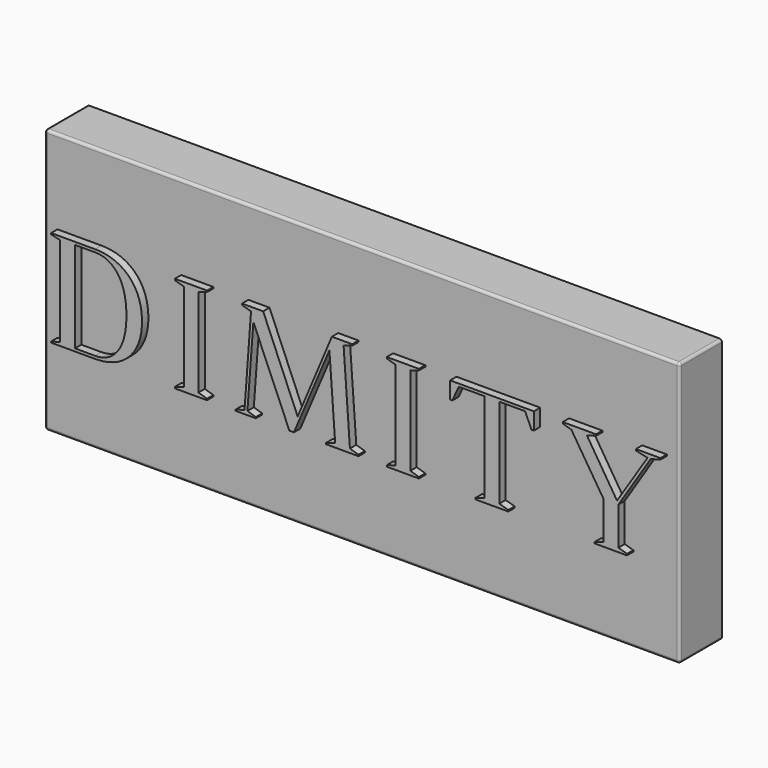
from build123d import *

# Parameters (mm, degrees)
F1_DEPTH = 15
F2_W     = 1200
F2_H     = 500
F3_DEPTH = 100
F5_W     = 1188
F5_H     = 488
F6_DEPTH = 94
F7_R     = 5


with BuildPart() as f1:
    # F0 (on Front) → F1 (new body)
    with BuildSketch(Plane.XZ):
        with BuildLine():
            Line((-492.688128328, 131.8467284969), (-575.8642325067, 131.8467284969))
            Line((-575.8642325067, 131.8467284969), (-575.8642325067, 129.4973567609))
            Line((-575.8642325067, 129.4973567609), (-558.9160195401, 125.5868167992))
            Line((-558.9160195401, 125.5868167992), (-558.9160195401, -44.4131832008))
            Line((-558.9160195401, -44.4131832008), (-575.8642325067, -48.5864438502))
            Line((-575.8642325067, -48.5864438502), (-575.8642325067, -50.6692748381))
            Line((-575.8642325067, -50.6692748381), (-492.688128328, -50.6692748381))
            add(Edge.make_bspline(
                [(-492.688128328, -50.6692748381), (-440.5398678839, -50.6692748381), (-404.0365235328, -16.7765100838), (-404.0365235328, 40.5868167992)],
                knots=[0, 0, 0, 0, 1, 1, 1, 1], degree=3))
            add(Edge.make_bspline(
                [(-404.0365235328, 40.5868167992), (-404.0365235328, 97.4286398014), (-440.5398678839, 131.8467284969), (-492.688128328, 131.8467284969)],
                knots=[0, 0, 0, 0, 1, 1, 1, 1], degree=3))
        make_face()
        with BuildLine():
            Line((-530.7578425423, -45.4564880014), (-530.7578425423, 126.6301423233))
            Line((-530.7578425423, 126.6301423233), (-492.688128328, 126.6301423233))
            add(Edge.make_bspline(
                [(-492.688128328, 126.6301423233), (-458.2686649634, 126.6301423233), (-433.5007536503, 97.9495426962), (-433.5007536503, 40.3278954484)],
                knots=[0, 0, 0, 0, 1, 1, 1, 1], degree=3))
            add(Edge.make_bspline(
                [(-433.5007536503, 40.3278954484), (-433.5007536503, -17.0354314346), (-458.2686649634, -45.4564880014), (-492.688128328, -45.4564880014)],
                knots=[0, 0, 0, 0, 1, 1, 1, 1], degree=3))
            Line((-492.688128328, -45.4564880014), (-530.7578425423, -45.4564880014))
        make_face(mode=Mode.SUBTRACT)
    extrude(amount=F1_DEPTH)


with BuildPart() as f1b:
    # F0 (on Front) → F1, piece 2 (new body)
    with BuildSketch(Plane.XZ):
        Polygon((-281.214325751, 131.8467284969), (-341.9704949597, 131.8467284969), (-341.9704949597, 129.2384354101), (-325.0184757483, 124.2845699242), (-325.0184757483, -43.1109363259), (-341.9704949597, -48.0647810881), (-341.9704949597, -50.6692748381), (-281.214325751, -50.6692748381), (-281.214325751, -48.0647810881), (-297.381940789, -43.1109363259), (-297.381940789, 124.2845699242), (-281.214325751, 129.2384354101), align=None)
    extrude(amount=F1_DEPTH)


with BuildPart() as f1c:
    # F0 (on Front) → F1, piece 3 (new body)
    with BuildSketch(Plane.XZ):
        Polygon((-175.0928314113, 131.8467284969), (-214.986434539, 131.8467284969), (-214.986434539, 129.2384354101), (-198.0382215723, 124.2845699242), (-210.2953104643, -43.6325990879), (-227.2397240942, -48.5864438502), (-227.2397240942, -50.6692748381), (-188.9110885291, -50.6692748381), (-188.9110885291, -48.5864438502), (-204.8197960321, -43.6325990879), (-193.6060326642, 108.120754223), (-125.5542525388, -50.6692748381), (-116.948761534, -50.6692748381), (-49.9403069328, 107.8580128117), (-38.9854649157, -43.1109363259), (-55.9374772192, -48.0647810881), (-55.9374772192, -50.6692748381), (5.0776064324, -50.6692748381), (5.0776064324, -48.0647810881), (-11.0900293293, -43.1109363259), (-23.0805705653, 124.2845699242), (-6.9167410483, 129.2384354101), (-6.9167410483, 131.8467284969), (-45.2453766134, 131.8467284969), (-109.9082864471, -21.9894350783), align=None)
    extrude(amount=F1_DEPTH)


with BuildPart() as f1d:
    # F0 (on Front) → F1, piece 4 (new body)
    with BuildSketch(Plane.XZ):
        Polygon((119.2943339332, 131.8467284969), (58.5419709692, 131.8467284969), (58.5419709692, 129.2384354101), (75.4901839359, 124.2845699242), (75.4901839359, -43.1109363259), (58.5419709692, -48.0647810881), (58.5419709692, -50.6692748381), (119.2943339332, -50.6692748381), (119.2943339332, -48.0647810881), (103.1305251399, -43.1109363259), (103.1305251399, 124.2845699242), (119.2943339332, 129.2384354101), align=None)
    extrude(amount=F1_DEPTH)


with BuildPart() as f1e:
    # F0 (on Front) → F1, piece 5 (new body)
    with BuildSketch(Plane.XZ):
        Polygon((336.4949805275, 131.8467284969), (178.2266073206, 131.8467284969), (178.2266073206, 99.7742122006), (182.3960686332, 99.7742122006), (194.6531575252, 126.6301423233), (243.1484315972, 126.6301423233), (243.1484315972, -43.1109363259), (226.2002186305, -48.0647810881), (226.2002186305, -50.6692748381), (288.2586278063, -50.6692748381), (288.2586278063, -48.0647810881), (271.3104148396, -43.1109363259), (271.3104148396, 126.6301423233), (320.0722296597, 126.6301423233), (332.0627778036, 99.7742122006), (336.4949805275, 99.7742122006), align=None)
    extrude(amount=F1_DEPTH)


with BuildPart() as f1f:
    # F0 (on Front) → F1, piece 6 (new body)
    with BuildSketch(Plane.XZ):
        Polygon((454.1005852279, 131.8467284969), (391.2615712155, 131.8467284969), (391.2615712155, 129.2384354101), (407.4254007325, 124.2845699242), (468.440491292, 28.5924693184), (468.440491292, -43.1109363259), (451.4922921411, -48.0647810881), (451.4922921411, -50.6692748381), (512.5035764559, -50.6692748381), (512.5035764559, -48.0647810881), (496.339746939, -43.1109363259), (496.339746939, 28.5924693184), (557.3510312538, 124.2845699242), (575.8642325067, 129.2384354101), (575.8642325067, 131.8467284969), (529.4555956673, 131.8467284969), (529.4555956673, 129.2384354101), (551.3576533963, 124.2845699242), (493.735253189, 34.330718254), (436.8934301868, 124.2845699242), (454.1005852279, 129.2384354101), align=None)
    extrude(amount=F1_DEPTH)


with BuildPart() as f3:
    # F2 (on Front) → F3 (new body)
    with BuildSketch(Plane.XZ):
        with Locations((0, 40.5887284969)):
            Rectangle(F2_W, F2_H)
    extrude(amount=-F3_DEPTH)

    # F5 (on face) → F6 (cut)
    with BuildSketch(Plane(origin=(0, 100, 0), x_dir=(-1, 0, 0), z_dir=(0, 1, 0))):
        with Locations((0, 40.5887284969)):
            Rectangle(F5_W, F5_H)
    extrude(amount=-F6_DEPTH, mode=Mode.SUBTRACT)

    # F7
    f7_edges = [f3.edges().sort_by_distance(p)[0] for p in [
        (0, 0, 290.588728),
        (-600, 0, 40.588728),
        (0, 0, -209.411272),
        (600, 0, 40.588728),
        (600, 50, 290.588728),
        (600, 50, -209.411272),
        (-600, 50, 290.588728),
        (-600, 50, -209.411272),
    ]]
    fillet(f7_edges, radius=F7_R)


solid = Compound([f1.part, f1b.part, f1c.part, f1d.part, f1e.part, f1f.part, f3.part])
